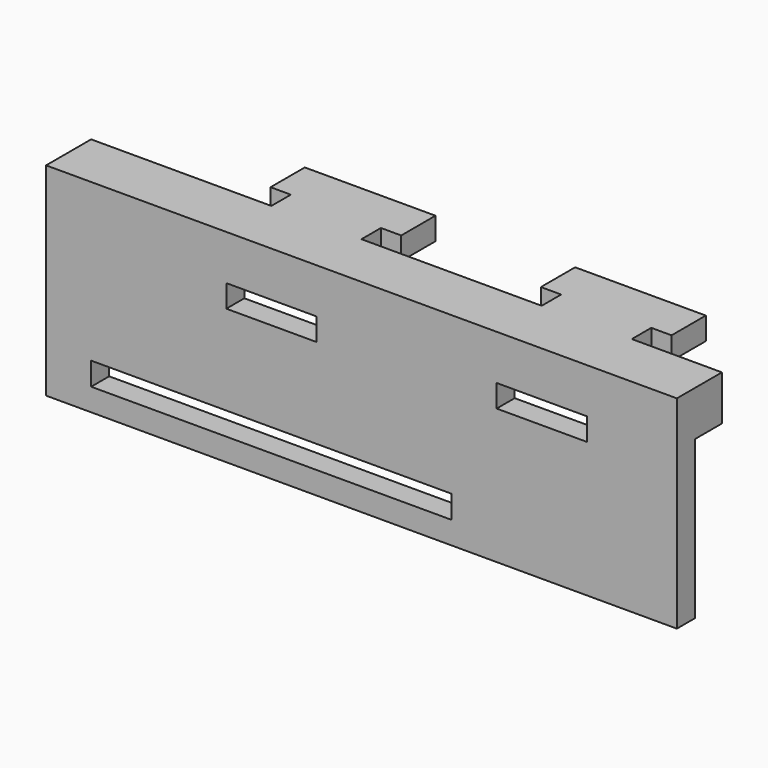
from build123d import *

# Parameters (mm, degrees)
F0_W     = 80
F0_H     = 5.1
F0_W_2   = 20
F0_H_2   = 5
F1_DEPTH = 5
F2_W     = 20
F2_H     = 5
F2_W_2   = 40
F3_DEPTH = 7.5
F4_DEPTH = 22.4
F5_W     = 4.5
F5_H     = 5
F6_DEPTH = 9.5
F7_W     = 4.5
F7_H     = 5
F8_DEPTH = 9.5
F9_DEPTH = 7.5


with BuildPart() as f1:
    # F0 (on Front) → F1 (new body)
    with BuildSketch(Plane.XZ):
        Polygon((-54.556705, 45), (-54.556705, 0), (85.443295, 0), (85.443295, 45), (65.443295, 45), (65.443295, 40), (45.443295, 40), (45.443295, 45), (5.443295, 45), (5.443295, 40), (-14.556705, 40), (-14.556705, 45), align=None)
        with Locations((-4.556705, 7.55)):
            Rectangle(F0_W, F0_H, mode=Mode.SUBTRACT)
        with Locations((-4.556705, 32.5)):
            Rectangle(F0_W_2, F0_H_2, mode=Mode.SUBTRACT)
        with Locations((55.443295, 32.5)):
            Rectangle(F0_W_2, F0_H_2, mode=Mode.SUBTRACT)
        with Locations((55.443295, 42.5)):
            Rectangle(F0_W_2, F0_H_2)
        with Locations((-4.556705, 42.5)):
            Rectangle(F0_W_2, F0_H_2)
    extrude(amount=F1_DEPTH)

    # F2 (on face) → F3 (join)
    with BuildSketch(Plane(origin=(0, 0, 0), x_dir=(-1, 0, 0), z_dir=(0, 1, 0))):
        with Locations((-75.443295, 42.5)):
            Rectangle(F2_W, F2_H)
        with Locations((-25.443295, 42.5)):
            Rectangle(F2_W_2, F2_H)
        with Locations((34.556705, 42.5)):
            Rectangle(F2_W_2, F2_H)
    extrude(amount=F3_DEPTH)

    # F2 (on face) → F4 (join)
    with BuildSketch(Plane(origin=(0, 0, 0), x_dir=(-1, 0, 0), z_dir=(0, 1, 0))):
        with Locations((-55.443295, 42.5)):
            Rectangle(F2_W, F2_H)
        with Locations((4.556705, 42.5)):
            Rectangle(F2_W, F2_H)
    extrude(amount=F4_DEPTH)

    # F5 (on face) → F6 (join)
    with BuildSketch(Plane(origin=(0, 22.4, 0), x_dir=(-1, 0, 0), z_dir=(0, 1, 0))):
        with Locations((-67.693295, 42.5)):
            Rectangle(F5_W, F5_H)
        with Locations((-43.193295, 42.5)):
            Rectangle(F5_W, F5_H)
    extrude(amount=-F6_DEPTH)

    # F7 (on face) → F8 (join)
    with BuildSketch(Plane(origin=(0, 22.4, 0), x_dir=(-1, 0, 0), z_dir=(0, 1, 0))):
        with Locations((-7.693295, 42.5)):
            Rectangle(F7_W, F7_H)
        with Locations((16.806705, 42.5)):
            Rectangle(F7_W, F7_H)
    extrude(amount=-F8_DEPTH)

    # F2 (on face) → F9 (join)
    with BuildSketch(Plane(origin=(0, 0, 0), x_dir=(-1, 0, 0), z_dir=(0, 1, 0))):
        Polygon((14.556705, 40), (-5.443295, 40), (-45.443295, 40), (-65.443295, 40), (-85.443295, 40), (-85.443295, 35), (-65.443295, 35), (-45.443295, 35), (-5.443295, 35), (14.556705, 35), (54.556705, 35), (54.556705, 40), align=None)
    extrude(amount=F9_DEPTH)


solid = f1.part
